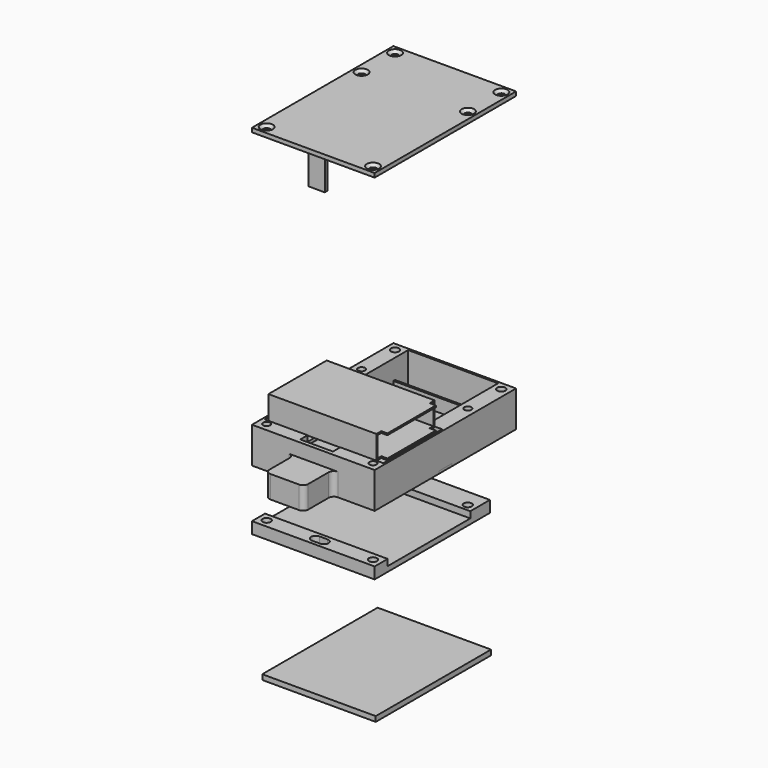
from build123d import *

# Parameters (mm, degrees)
SKETCH_W                = 60
SKETCH_H                = 86.456
PAD_DEPTH               = 1.6
SKETCH001_W             = 60
SKETCH001_H             = 86.456
SKETCH001_W_2           = 44
SKETCH001_H_2           = 78.956
PAD001_DEPTH            = 17.6
SKETCH008_W             = 44
SKETCH008_H             = 1
PAD006_DEPTH            = 8
SKETCH003_R             = 4
SKETCH003_R_2           = 2
SKETCH003_R_3           = 2.5
SKETCH003_R_4           = 1.15
PAD007_DEPTH            = 6.1
SKETCH004_W             = 17
SKETCH004_H             = 1
PAD008_DEPTH            = 10
POCKET_START            = 3.1
SKETCH005_W             = 58
SKETCH005_H             = 35.956
POCKET_DEPTH            = 14.5
SKETCH009_R             = 2
SKETCH009_R_2           = 1.75
POCKET001_DEPTH         = 17.6
POCKET004_DEPTH         = 8
PAD011_DEPTH            = 11
SKETCH017_W             = 16
SKETCH017_H             = 8
POCKET005_DEPTH         = 22.5
SKETCH006_W             = 60
SKETCH006_H             = 86.456
PAD004_DEPTH            = 2
HOLE_D                  = 3.4
HOLE_DEPTH              = 25
HOLE_CSINK_D            = 6.1
HOLE_CSINK_ANGLE        = 90
SKETCH020_W             = 20
SKETCH020_H             = 6
PAD013_DEPTH            = 16.5
SKETCH021_W             = 20
SKETCH021_H             = 10
PAD014_DEPTH            = 5.5
SKETCH022_W             = 8
SKETCH022_H             = 1.6
PAD015_DEPTH            = 17.6
BODY001_PLACEMENT_ANGLE = 180
SKETCH007_W             = 55.5
SKETCH007_H             = 70.5
PAD005_DEPTH            = 2.5
SKETCH011_W             = 60
SKETCH011_H             = 70.5
PAD009_DEPTH            = 2.5
SKETCH012_W             = 60
SKETCH012_H             = 8
SKETCH012_H_2           = 12
PAD010_DEPTH            = 5.6
SKETCH013_R             = 2
POCKET002_DEPTH         = 5.6
POCKET003_DEPTH         = 2
SKETCH023_W             = 35.6
SKETCH023_H             = 11.6
PAD016_DEPTH            = 0.8
SKETCH024_W             = 35.6
SKETCH024_H             = 11.6
SKETCH024_W_2           = 34
SKETCH024_H_2           = 10
PAD017_DEPTH            = 55.8
SKETCH025_W             = 3
SKETCH025_H             = 11.6
POCKET006_DEPTH         = 3
SKETCH026_W             = 60
SKETCH026_H             = 8
SKETCH026_R             = 2
PAD018_DEPTH            = 1.2


with BuildPart() as box:
    # Sketch → Pad (new body)
    with BuildSketch(Plane.XY):
        Rectangle(SKETCH_W, SKETCH_H)
    extrude(amount=PAD_DEPTH)

    # Sketch001 → Pad001 (join)
    with BuildSketch(Plane.XY):
        Rectangle(SKETCH001_W, SKETCH001_H)
        with Locations((0, 2.75)):
            Rectangle(SKETCH001_W_2, SKETCH001_H_2, mode=Mode.SUBTRACT)
    extrude(amount=PAD001_DEPTH)

    # Sketch008 → Pad006 (join)
    with BuildSketch(Plane.XY):
        with Locations((0, 33.728)):
            Rectangle(SKETCH008_W, SKETCH008_H)
    extrude(amount=PAD006_DEPTH)

    # Sketch003 → Pad007 (join)
    with BuildSketch(Plane.XY):
        with Locations((16, 27.228)):
            Circle(SKETCH003_R)
        with Locations((16, 27.228)):
            Circle(SKETCH003_R_2, mode=Mode.SUBTRACT)
        with Locations((16, 5.228)):
            Circle(SKETCH003_R)
        with Locations((16, 5.228)):
            Circle(SKETCH003_R_2, mode=Mode.SUBTRACT)
        with Locations((-15, 16.228)):
            Circle(SKETCH003_R_3)
        with Locations((-15, 16.228)):
            Circle(SKETCH003_R_4, mode=Mode.SUBTRACT)
    extrude(amount=PAD007_DEPTH)

    # Sketch004 → Pad008 (join)
    with BuildSketch(Plane.XY):
        with Locations((-13.5, -0.272)):
            Rectangle(SKETCH004_W, SKETCH004_H)
        with Locations((13.5, -0.272)):
            Rectangle(SKETCH004_W, SKETCH004_H)
    extrude(amount=PAD008_DEPTH)

    # Sketch005 → Pocket (cut)
    with BuildSketch(Plane.XY.offset(POCKET_START)):
        with Locations((0, -18.75)):
            Rectangle(SKETCH005_W, SKETCH005_H)
    extrude(amount=POCKET_DEPTH, mode=Mode.SUBTRACT)

    # Sketch009 → Pocket001 (cut)
    with BuildSketch(Plane.XY):
        with Locations((-26, 39.228)):
            Circle(SKETCH009_R)
        with Locations((-26, 18.772)):
            Circle(SKETCH009_R_2)
        with Locations((-26, -39.228)):
            Circle(SKETCH009_R_2)
        with Locations((26, -39.228)):
            Circle(SKETCH009_R_2)
        with Locations((26, 18.772)):
            Circle(SKETCH009_R_2)
        with Locations((26, 39.228)):
            Circle(SKETCH009_R)
    extrude(amount=POCKET001_DEPTH, mode=Mode.SUBTRACT)

    # Sketch015 → Pocket004 (cut, symmetric)
    with BuildSketch(Plane.YZ):
        Polygon((-41.228, 0), (-41.228, 17.6), (-36.728, 17.6), (-36.728, 8.8), (-38.728, 0), (-39.228, 0), align=None)
    extrude(amount=POCKET004_DEPTH, both=True, mode=Mode.SUBTRACT)

    # Sketch016 → Pad011 (join)
    with BuildSketch(Plane.XY):
        with BuildLine():
            Line((9.5, -45.728), (9.5, -58.228))
            ThreePointArc((7, -60.728), (8.767767, -59.995767), (9.5, -58.228))
            Line((7, -60.728), (-7, -60.728))
            ThreePointArc((-9.5, -58.228), (-8.767767, -59.995767), (-7, -60.728))
            Line((-9.5, -58.228), (-9.5, -45.728))
            ThreePointArc((-9.5, -45.728), (-10.232233, -43.960233), (-12, -43.228))
            Line((-12, -43.228), (12, -43.228))
            ThreePointArc((12, -43.228), (10.232233, -43.960233), (9.5, -45.728))
        make_face()
    extrude(amount=PAD011_DEPTH)

    # Sketch017 → Pocket005 (cut)
    with BuildSketch(Plane.XZ.offset(36.728)):
        with Locations((0, 5.6)):
            Rectangle(SKETCH017_W, SKETCH017_H)
    extrude(amount=POCKET005_DEPTH, mode=Mode.SUBTRACT)


with BuildPart() as lid:
    # Sketch006 → Pad004 (new body)
    with BuildSketch(Plane.XY):
        Rectangle(SKETCH006_W, SKETCH006_H)
    extrude(amount=PAD004_DEPTH)

    # Hole
    with Locations(Plane(origin=(0, 0, 0), x_dir=(1, 0, 0), z_dir=(0, 0, -1))):
        with Locations((-26, -39.228), (26, -39.228), (26, 39.228), (-26, 39.228), (-26, -18.772), (26, -18.772)):
            CounterSinkHole(HOLE_D / 2, HOLE_CSINK_D / 2, depth=HOLE_DEPTH, counter_sink_angle=HOLE_CSINK_ANGLE)

    # Sketch020 → Pad013 (join)
    with BuildSketch(Plane.XY):
        with Locations((0, 38.228)):
            Rectangle(SKETCH020_W, SKETCH020_H)
    extrude(amount=PAD013_DEPTH)

    # Sketch021 → Pad014 (join)
    with BuildSketch(Plane.XY):
        with Locations((0, -17.978)):
            Rectangle(SKETCH021_W, SKETCH021_H)
    extrude(amount=PAD014_DEPTH)

    # Sketch022 → Pad015 (join)
    with BuildSketch(Plane.XY):
        with Locations((0, -40.428)):
            Rectangle(SKETCH022_W, SKETCH022_H)
    extrude(amount=PAD015_DEPTH)


with BuildPart() as lid_1:
    # Body001 placement: moved
    add(lid.part.moved(Location((0, 0, 145.5))).rotate(Axis((0, 0, 145.5), (0, 1, 0)), BODY001_PLACEMENT_ANGLE))


with BuildPart() as obj1:
    # Sketch007 → Pad005 (new body)
    with BuildSketch(Plane.XY):
        Rectangle(SKETCH007_W, SKETCH007_H)
    extrude(amount=PAD005_DEPTH)


with BuildPart() as obj1_1:
    # Body002 placement: moved
    add(obj1.part.moved(Location((0, -4.5, -93))))


with BuildPart() as obj2:
    # Sketch011 → Pad009 (new body)
    with BuildSketch(Plane.XY):
        Rectangle(SKETCH011_W, SKETCH011_H)
    extrude(amount=PAD009_DEPTH)

    # Sketch012 → Pad010 (join)
    with BuildSketch(Plane.XY):
        with Locations((0, -31.25)):
            Rectangle(SKETCH012_W, SKETCH012_H)
        with Locations((0, 29.25)):
            Rectangle(SKETCH012_W, SKETCH012_H_2)
    extrude(amount=PAD010_DEPTH)

    # Sketch013 → Pocket002 (cut)
    with BuildSketch(Plane.XY):
        with Locations((-26, -31.25)):
            Circle(SKETCH013_R)
        with Locations((-26, 26.75)):
            Circle(SKETCH013_R)
        with Locations((26, 26.75)):
            Circle(SKETCH013_R)
        with Locations((26, -31.25)):
            Circle(SKETCH013_R)
        with BuildLine():
            ThreePointArc((-2, -29), (-4.25, -31.25), (-2, -33.5))
            Line((-2, -33.5), (2, -33.5))
            ThreePointArc((2, -33.5), (4.25, -31.25), (2, -29))
            Line((2, -29), (-2, -29))
        make_face()
    extrude(amount=POCKET002_DEPTH, mode=Mode.SUBTRACT)

    # Sketch014 → Pocket003 (cut)
    with BuildSketch(Plane.XY):
        with BuildLine():
            ThreePointArc((5, 7.5), (0, 12.5), (-5, 7.5))
            Line((-5, 7.5), (-5, -25))
            ThreePointArc((-5, -25), (0, -30), (5, -25))
            Line((5, -25), (5, 7.5))
        make_face()
    extrude(amount=POCKET003_DEPTH, mode=Mode.SUBTRACT)


with BuildPart() as obj2_1:
    # Body003 placement: moved
    add(obj2.part.moved(Location((0, -8, -29.5))))


with BuildPart() as batterybox:
    # Sketch023 → Pad016 (new body)
    with BuildSketch(Plane.YZ):
        Rectangle(SKETCH023_W, SKETCH023_H)
    extrude(amount=PAD016_DEPTH)

    # Sketch024 → Pad017 (join)
    with BuildSketch(Plane.YZ):
        Rectangle(SKETCH024_W, SKETCH024_H)
        Rectangle(SKETCH024_W_2, SKETCH024_H_2, mode=Mode.SUBTRACT)
    extrude(amount=PAD017_DEPTH)

    # Sketch025 → Pocket006 (cut)
    with BuildSketch(Plane.YZ.offset(55.8)):
        with Locations((16.3, 0)):
            Rectangle(SKETCH025_W, SKETCH025_H)
        with Locations((-16.3, 0)):
            Rectangle(SKETCH025_W, SKETCH025_H)
    extrude(amount=-POCKET006_DEPTH, mode=Mode.SUBTRACT)


with BuildPart() as batterybox_1:
    # Body004 placement: moved
    add(batterybox.part.moved(Location((-27.5, -18.5, 23))))


with BuildPart() as obj3:
    # Sketch026 → Pad018 (new body)
    with BuildSketch(Plane.XY):
        Rectangle(SKETCH026_W, SKETCH026_H)
        with Locations((-26, 0)):
            Circle(SKETCH026_R, mode=Mode.SUBTRACT)
        with Locations((26, 0)):
            Circle(SKETCH026_R, mode=Mode.SUBTRACT)
        with BuildLine():
            ThreePointArc((-2, 2.25), (-4.25, 0), (-2, -2.25))
            Line((-2, -2.25), (2, -2.25))
            ThreePointArc((2, -2.25), (4.25, 0), (2, 2.25))
            Line((2, 2.25), (-2, 2.25))
        make_face(mode=Mode.SUBTRACT)
    extrude(amount=PAD018_DEPTH)


solid = Compound([box.part, lid_1.part, obj1_1.part, obj2_1.part, batterybox_1.part, obj3.part])
